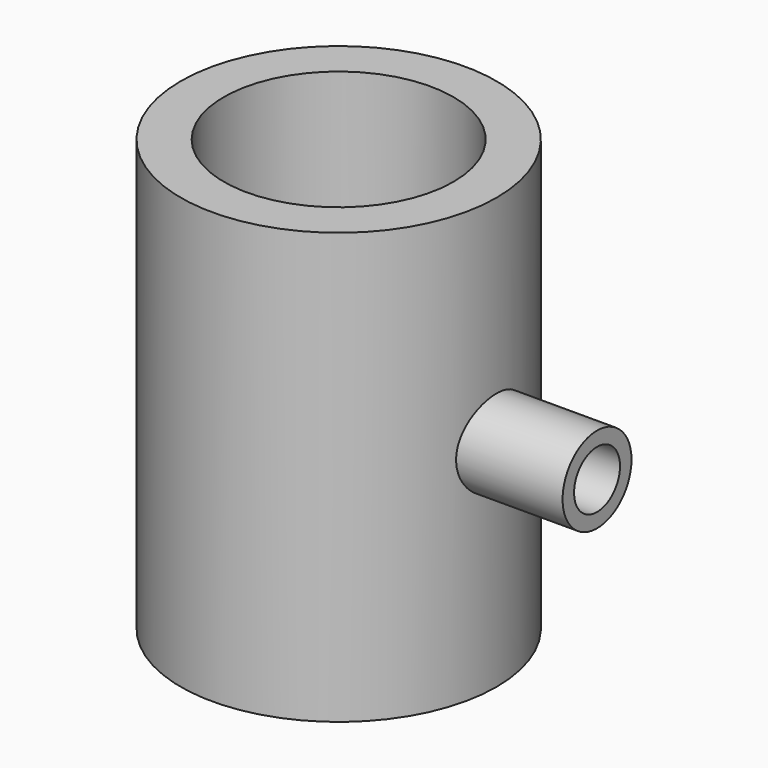
from build123d import *

# Parameters (mm, degrees)
F0_R          = 11
F0_R_2        = 8
F1_DEPTH      = 15
F1_DEPTH_BACK = 15
F4_R          = 3
F4_R_2        = 2
F5_DEPTH      = 10
F6_D          = 4
F6_DEPTH      = 18.0010001


with BuildPart() as f1:
    # F0 (on Top) → F1 (new body, two sides)
    with BuildSketch(Plane.XY) as f1_sk:
        Circle(F0_R)
        Circle(F0_R_2, mode=Mode.SUBTRACT)
    extrude(amount=F1_DEPTH)
    extrude(f1_sk.sketch, amount=-F1_DEPTH_BACK)

    # F4 (on offset) → F5 (join)
    with BuildSketch(Plane.YZ.offset(8)):
        Circle(F4_R)
        Circle(F4_R_2, mode=Mode.SUBTRACT)
    extrude(amount=F5_DEPTH)

    # F6 (through all, one way)
    with BuildSketch(Plane(origin=(0, 0, 0), x_dir=(0, 1, 0), z_dir=(-1, 0, 0))):
        with Locations((0, 0)):
            Circle(F6_D / 2)
    extrude(amount=-F6_DEPTH, mode=Mode.SUBTRACT)


solid = f1.part
